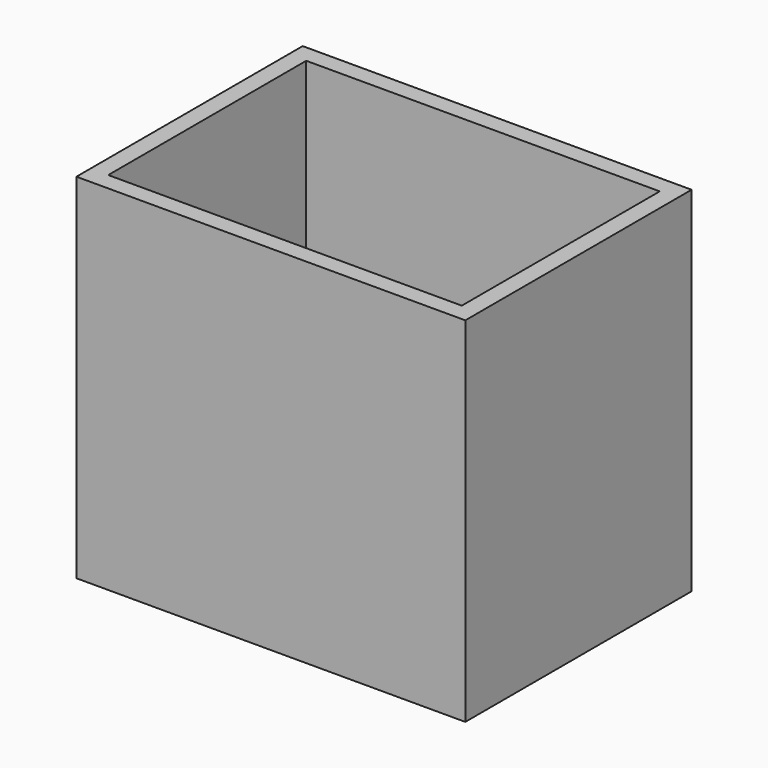
from build123d import *

# Parameters (mm, degrees)
F0_W     = 279.4
F0_H     = 254
F1_DEPTH = 203.2
F3_DEPTH = 279.4


with BuildPart() as f1:
    # F0 (on Front) → F1 (new body)
    with BuildSketch(Plane.XZ):
        with Locations((80.479586, 7.937022)):
            Rectangle(F0_W, F0_H)
    extrude(amount=F1_DEPTH)

    # F2 (on face) → F3 (cut)
    with BuildSketch(Plane.XY.offset(134.937022)):
        Polygon((207.479586, -12.7), (80.479586, -12.7), (-46.520414, -12.7), (-46.520414, -101.6), (-46.520414, -190.5), (80.479586, -190.5), (207.479586, -190.5), (207.479586, -101.6), align=None)
    extrude(amount=-F3_DEPTH, mode=Mode.SUBTRACT)


solid = f1.part
